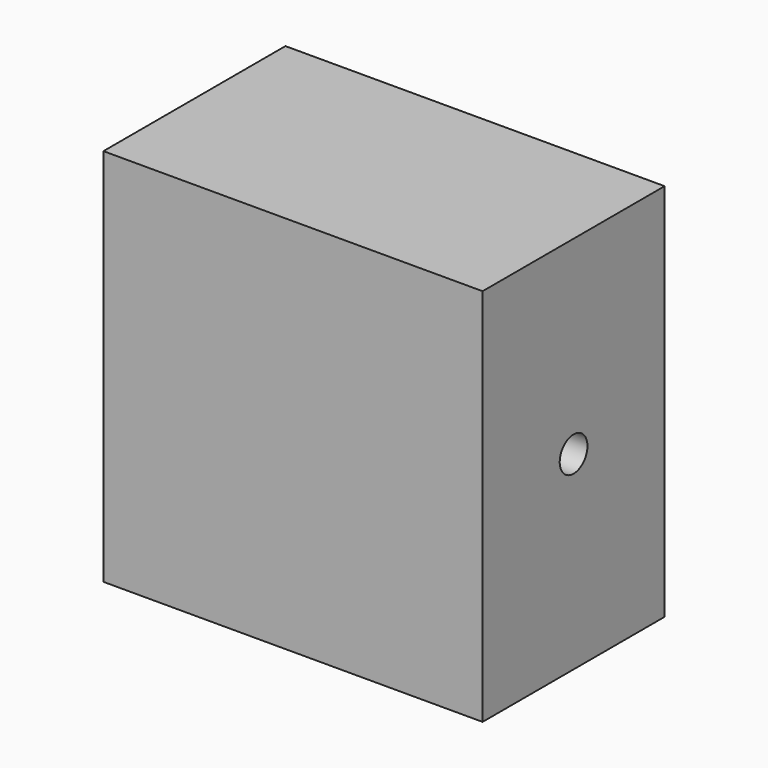
from build123d import *

# Parameters (mm, degrees)
F0_W     = 50
F0_H     = 50
F1_DEPTH = 30
F2_R     = 2.286
F3_DEPTH = 50.001


with BuildPart() as f1:
    # F0 (on Front) → F1 (new body)
    with BuildSketch(Plane.XZ):
        Rectangle(F0_W, F0_H)
    extrude(amount=F1_DEPTH)

    # F2 (on face) → F3 (cut, through all)
    with BuildSketch(Plane.YZ.offset(25)):
        with Locations((-15, 0)):
            Circle(F2_R)
    extrude(amount=-F3_DEPTH, mode=Mode.SUBTRACT)


solid = f1.part
